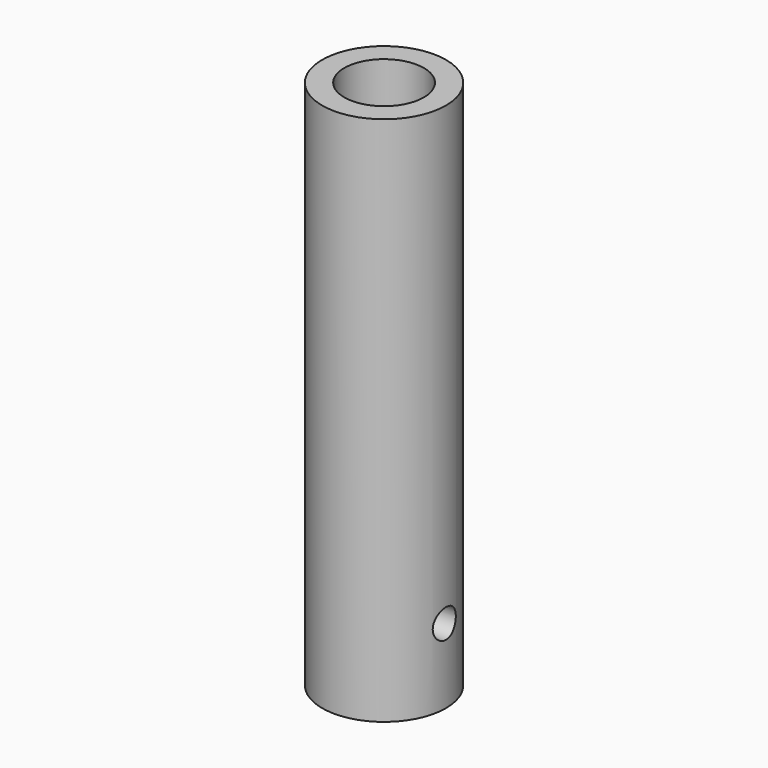
from build123d import *

# Parameters (mm, degrees)
F0_R     = 44.45
F0_R_2   = 28.575
F1_DEPTH = 381
F2_R     = 10.3505
F3_DEPTH = 119.888
F4_DEPTH = 65.786


with BuildPart() as f1:
    # F0 (on Top) → F1 (new body)
    with BuildSketch(Plane.XY):
        Circle(F0_R)
        Circle(F0_R_2, mode=Mode.SUBTRACT)
    extrude(amount=F1_DEPTH)

    # F2 (on Right) → F3 (cut)
    with BuildSketch(Plane.YZ):
        with Locations((0, 53.559698)):
            Circle(F2_R)
    extrude(amount=-F3_DEPTH, mode=Mode.SUBTRACT)

    # F2 (on Right) → F4 (cut)
    with BuildSketch(Plane.YZ):
        with Locations((0, 53.559698)):
            Circle(F2_R)
    extrude(amount=F4_DEPTH, mode=Mode.SUBTRACT)


solid = f1.part
